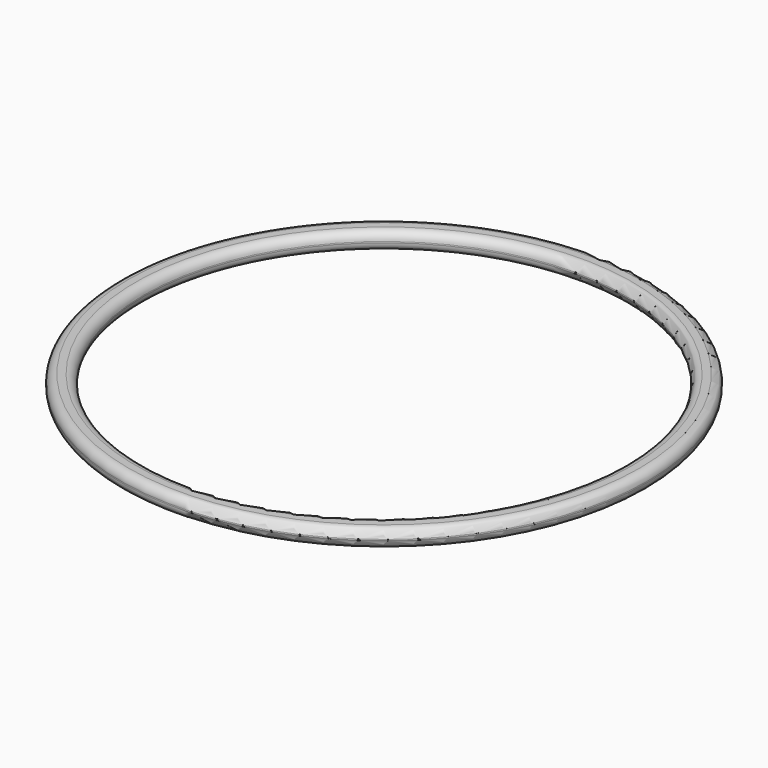
from build123d import *

# Parameters (mm, degrees)
SKETCH017_R   = 11
SKETCH017_R_2 = 10
PAD007_DEPTH  = 0.75
FILLET006_R   = 0.35
FILLET007_R   = 0.35
FILLET008_R   = 0.35
FILLET009_R   = 0.35


with BuildPart() as part:
    # Sketch017 → Pad007 (new body)
    with BuildSketch(Plane.XY):
        Circle(SKETCH017_R)
        Circle(SKETCH017_R_2, mode=Mode.SUBTRACT)
    extrude(amount=PAD007_DEPTH)

    # Fillet006
    fillet006_edges = [part.edges().sort_by_distance(p)[0] for p in [
        (-11, 0, 0.75),
    ]]
    fillet(fillet006_edges, radius=FILLET006_R)

    # Fillet007
    fillet007_edges = [part.edges().sort_by_distance(p)[0] for p in [
        (-11, 0, 0),
    ]]
    fillet(fillet007_edges, radius=FILLET007_R)

    # Fillet008
    fillet008_edges = [part.edges().sort_by_distance(p)[0] for p in [
        (-10, 0, 0.75),
    ]]
    fillet(fillet008_edges, radius=FILLET008_R)

    # Fillet009
    fillet009_edges = [part.edges().sort_by_distance(p)[0] for p in [
        (-10, 0, 0),
    ]]
    fillet(fillet009_edges, radius=FILLET009_R)


with BuildPart() as part_1:
    # Body005 placement: moved
    add(part.part.moved(Location((0, 1e-05, 76.39999))))


solid = part_1.part
